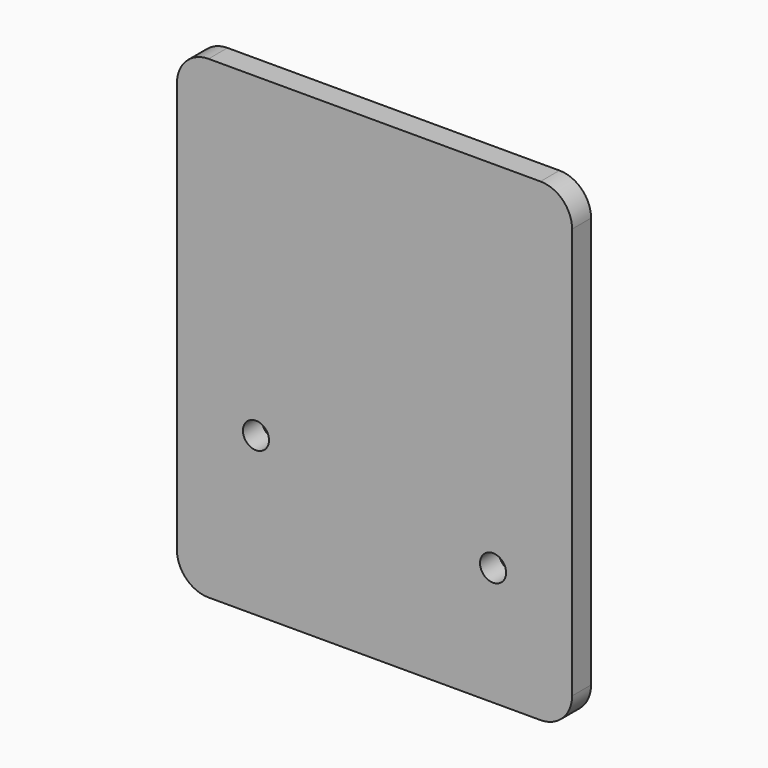
from build123d import *

# Parameters (mm, degrees)
F0_W     = 100
F0_H     = 120
F1_DEPTH = 6
F3_D     = 6.6
F4_R     = 8


with BuildPart() as f1:
    # F0 (on Front) → F1 (new body)
    with BuildSketch(Plane.XZ):
        with Locations((50, 60)):
            Rectangle(F0_W, F0_H)
        with Locations((50, 60)):
            Rectangle(F0_W, F0_H)
    extrude(amount=F1_DEPTH)

    # F3 (through all)
    with Locations(Plane.XZ.offset(6)):
        with Locations((80, 30), (20, 40)):
            Hole(F3_D / 2)

    # F4
    f4_edges = [f1.edges().sort_by_distance(p)[0] for p in [
        (100, -3, 120),
        (100, -3, 0),
        (0, -3, 0),
        (0, -3, 120),
    ]]
    fillet(f4_edges, radius=F4_R)


solid = f1.part
